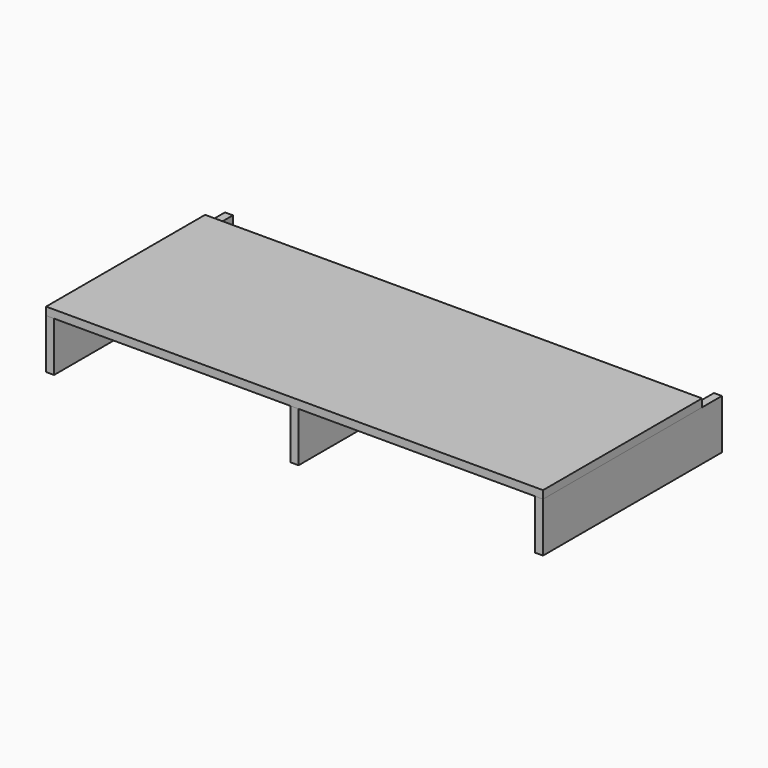
from build123d import *

# Parameters (mm, degrees)
F0_W          = 1000
F0_H          = 400
F1_DEPTH      = 16
F3_W          = 450
F3_H          = 100
F4_DEPTH      = 16
F6_W          = 400
F6_H          = 100
F7_DEPTH      = 8
F7_DEPTH_BACK = 8


with BuildPart() as f1:
    # F0 (on Top) → F1 (new body)
    with BuildSketch(Plane.XY):
        Rectangle(F0_W, F0_H)
    extrude(amount=-F1_DEPTH)


with BuildPart() as f4:
    # F3 (on offset) → F4 (new body)
    with BuildSketch(Plane.YZ.offset(500)):
        with Locations((25, -66)):
            Rectangle(F3_W, F3_H)
    extrude(amount=-F4_DEPTH)


with BuildPart() as f5_1:
    # F5: instance of F4
    add(f4.part.mirror(Plane.YZ))


with BuildPart() as f7:
    # F6 (on Right) → F7 (new body, two sides)
    with BuildSketch(Plane.YZ) as f7_sk:
        with Locations((0, -66)):
            Rectangle(F6_W, F6_H)
    extrude(amount=F7_DEPTH)
    extrude(f7_sk.sketch, amount=-F7_DEPTH_BACK)


solid = Compound([f1.part, f4.part, f5_1.part, f7.part])
